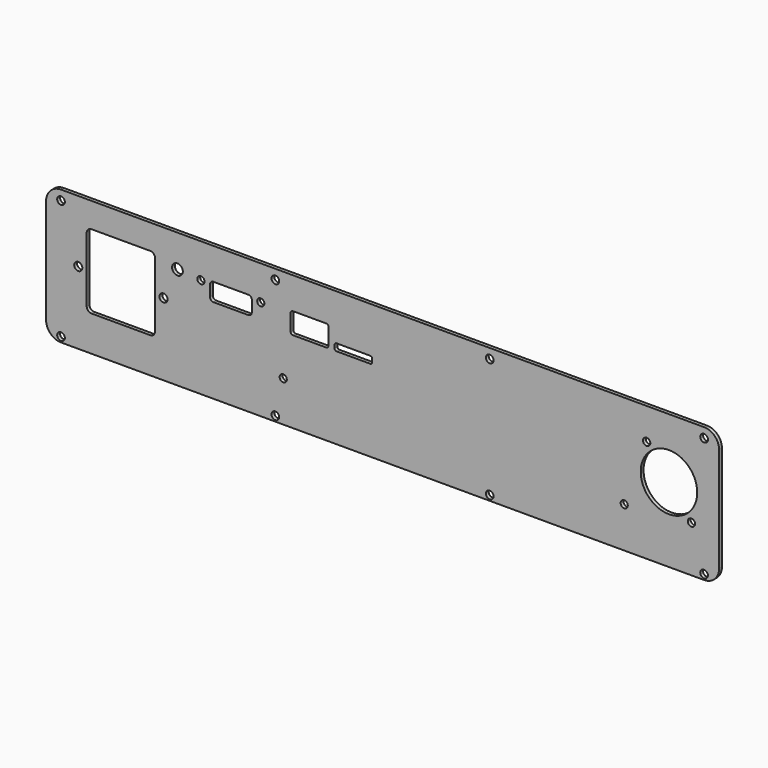
from build123d import *

# Parameters (mm, degrees)
F0_R     = 1.63195
F0_R_2   = 1.524
F0_R_3   = 1.548892
F0_R_4   = 1.713992
F0_R_5   = 2.286
F0_R_6   = 12.000992
F1_DEPTH = 1.5


with BuildPart() as f1:
    # F0 (on Front) → F1 (new body)
    with BuildSketch(Plane.XZ):
        with BuildLine():
            ThreePointArc((142.875, 22.225), (141.015128, 26.715128), (136.525, 28.575))
            Line((136.525, 28.575), (-136.525, 28.575))
            ThreePointArc((-136.525, 28.575), (-141.015128, 26.715128), (-142.875, 22.225))
            Line((-142.875, 22.225), (-142.875, -22.225))
            ThreePointArc((-142.875, -22.225), (-141.015128, -26.715128), (-136.525, -28.575))
            Line((-136.525, -28.575), (136.525, -28.575))
            ThreePointArc((136.525, -28.575), (141.015128, -26.715128), (142.875, -22.225))
            Line((142.875, -22.225), (142.875, 22.225))
        make_face()
        with Locations((-136.525, -26.348944)):
            Circle(F0_R, mode=Mode.SUBTRACT)
        with Locations((-45.517054, -26.348944)):
            Circle(F0_R, mode=Mode.SUBTRACT)
        with Locations((-42.188892, -11.27506)):
            Circle(F0_R_2, mode=Mode.SUBTRACT)
        with Locations((45.490892, -26.348944)):
            Circle(F0_R, mode=Mode.SUBTRACT)
        with Locations((136.500108, -26.348944)):
            Circle(F0_R, mode=Mode.SUBTRACT)
        with Locations((102.591108, -11.27506)):
            Circle(F0_R_2, mode=Mode.SUBTRACT)
        with Locations((131.115054, -8.849106)):
            Circle(F0_R_3, mode=Mode.SUBTRACT)
        with Locations((-129.204974, 2.218944)):
            Circle(F0_R_4, mode=Mode.SUBTRACT)
        with BuildLine():
            ThreePointArc((-98.624898, 17.968976), (-97.210687, 17.383191), (-96.624902, 15.96898))
            Line((-96.624902, 15.96898), (-96.624902, -11.531092))
            ThreePointArc((-96.624902, -11.531092), (-97.210687, -12.945303), (-98.624898, -13.531088))
            Line((-98.624898, -13.531088), (-123.625102, -13.531088))
            ThreePointArc((-123.625102, -13.531088), (-125.039313, -12.945303), (-125.625098, -11.531092))
            Line((-125.625098, -11.531092), (-125.625098, 15.96898))
            ThreePointArc((-125.625098, 15.96898), (-125.039313, 17.383191), (-123.625102, 17.968976))
            Line((-123.625102, 17.968976), (-98.624898, 17.968976))
        make_face(mode=Mode.SUBTRACT)
        with Locations((-93.02496, 2.218944)):
            Circle(F0_R_4, mode=Mode.SUBTRACT)
        with Locations((-77.113892, 14.010894)):
            Circle(F0_R_2, mode=Mode.SUBTRACT)
        with BuildLine():
            ThreePointArc((-73.303892, 13.654024), (-72.864516, 14.714772), (-71.803768, 15.154148))
            Line((-71.803768, 15.154148), (-57.024016, 15.154148))
            ThreePointArc((-57.024016, 15.154148), (-55.963268, 14.714772), (-55.523892, 13.654024))
            Line((-55.523892, 13.654024), (-55.523892, 9.034018))
            ThreePointArc((-55.523892, 9.034018), (-55.963268, 7.97327), (-57.024016, 7.533894))
            Line((-57.024016, 7.533894), (-71.803768, 7.533894))
            ThreePointArc((-71.803768, 7.533894), (-72.864516, 7.97327), (-73.303892, 9.034018))
            Line((-73.303892, 9.034018), (-73.303892, 13.654024))
        make_face(mode=Mode.SUBTRACT)
        with Locations((-51.713892, 14.010894)):
            Circle(F0_R_2, mode=Mode.SUBTRACT)
        with BuildLine():
            ThreePointArc((-39.012876, 14.268958), (-38.752494, 14.897576), (-38.123876, 15.157958))
            Line((-38.123876, 15.157958), (-23.901908, 15.157958))
            ThreePointArc((-23.901908, 15.157958), (-23.27329, 14.897576), (-23.012908, 14.268958))
            Line((-23.012908, 14.268958), (-23.012908, 7.046976))
            ThreePointArc((-23.012908, 7.046976), (-23.27329, 6.418358), (-23.901908, 6.157976))
            Line((-23.901908, 6.157976), (-38.123876, 6.157976))
            ThreePointArc((-38.123876, 6.157976), (-38.752494, 6.418358), (-39.012876, 7.046976))
            Line((-39.012876, 7.046976), (-39.012876, 14.268958))
        make_face(mode=Mode.SUBTRACT)
        with BuildLine():
            ThreePointArc((-5.284978, 9.161018), (-4.655642, 8.900338), (-4.394962, 8.271002))
            Line((-4.394962, 8.271002), (-4.394962, 7.05104))
            ThreePointArc((-4.394962, 7.05104), (-4.655642, 6.421704), (-5.284978, 6.161024))
            Line((-5.284978, 6.161024), (-19.504914, 6.161024))
            ThreePointArc((-19.504914, 6.161024), (-20.13425, 6.421704), (-20.39493, 7.05104))
            Line((-20.39493, 7.05104), (-20.39493, 8.271002))
            ThreePointArc((-20.39493, 8.271002), (-20.13425, 8.900338), (-19.504914, 9.161018))
            Line((-19.504914, 9.161018), (-5.284978, 9.161018))
        make_face(mode=Mode.SUBTRACT)
        with Locations((-87.097108, 14.799056)):
            Circle(F0_R_5, mode=Mode.SUBTRACT)
        with Locations((-136.525, 24.451056)):
            Circle(F0_R, mode=Mode.SUBTRACT)
        with Locations((-45.517054, 24.451056)):
            Circle(F0_R, mode=Mode.SUBTRACT)
        with Locations((121.590054, 3.165094)):
            Circle(F0_R_6, mode=Mode.SUBTRACT)
        with Locations((45.490892, 24.451056)):
            Circle(F0_R, mode=Mode.SUBTRACT)
        with Locations((112.115092, 15.153894)):
            Circle(F0_R_3, mode=Mode.SUBTRACT)
        with Locations((136.500108, 24.451056)):
            Circle(F0_R, mode=Mode.SUBTRACT)
    extrude(amount=F1_DEPTH)


solid = f1.part
